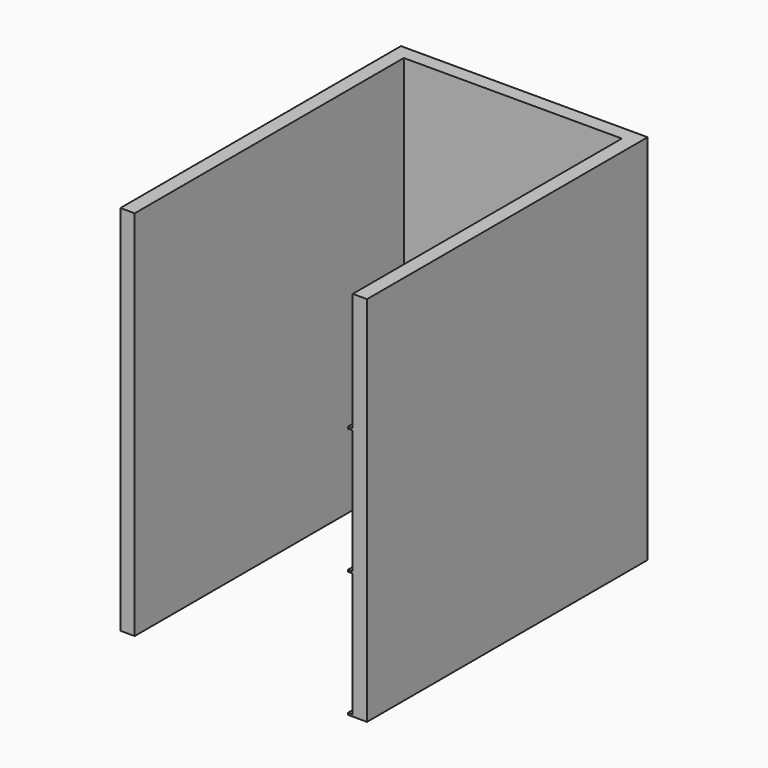
from build123d import *

# Parameters (mm, degrees)
F1_DEPTH = 495.3
F2_W     = 6.35
F2_H     = 2.54
F3_DEPTH = 127


with BuildPart() as f1:
    # F0 (on Top) → F1 (new body)
    with BuildSketch(Plane.XY):
        Polygon((-257.175, 12.7), (12.7, 12.7), (22.86, 12.7), (22.86, -434.975), (41.91, -434.975), (41.91, 31.75), (-286.385, 31.75), (-286.385, -434.975), (-267.335, -434.975), (-267.335, 12.7), align=None)
    extrude(amount=F1_DEPTH)

    # F2 (on face) → F3 (join)
    with BuildSketch(Plane.XZ.offset(434.975)):
        with Locations((19.685, 1.27)):
            Rectangle(F2_W, F2_H)
        with Locations((19.685, 168.91)):
            Rectangle(F2_W, F2_H)
        with Locations((19.685, 336.55)):
            Rectangle(F2_W, F2_H)
    extrude(amount=-F3_DEPTH)


solid = f1.part
